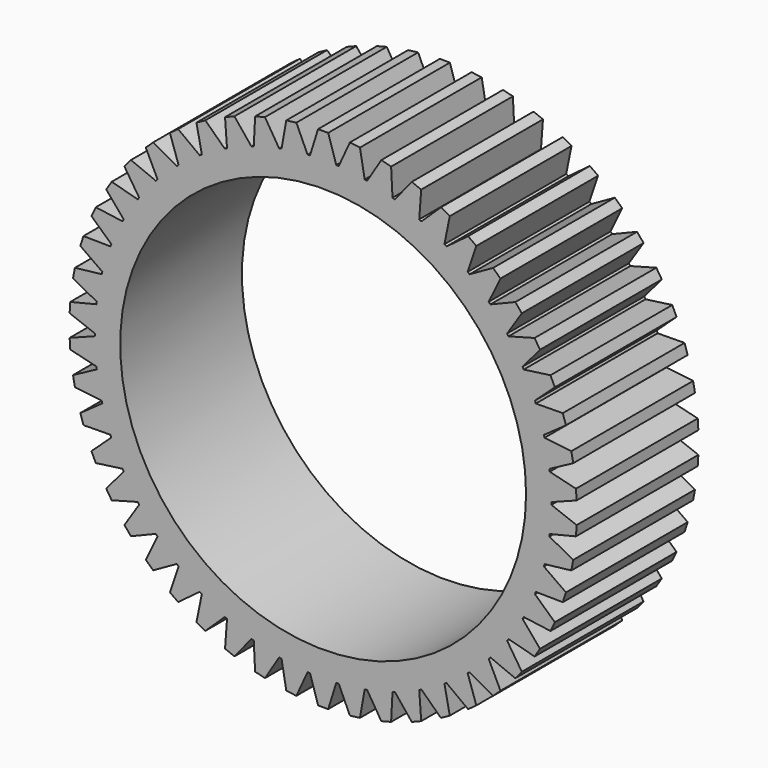
from build123d import *

# Parameters (mm, degrees)
F1_DEPTH = 15
F2_R     = 20
F3_DEPTH = 15


with BuildPart() as f1:
    # F0 (on Front) → F1 (new body)
    with BuildSketch(Plane.XZ):
        with BuildLine():
            ThreePointArc((22.499677, -0.120524), (22.499919, -0.060262), (22.5, 0))
            ThreePointArc((22.5, 0), (22.499919, 0.060262), (22.499677, 0.120524))
            ThreePointArc((22.499677, 0.120524), (22.455601, 1.412787), (22.337366, 2.700384))
            ThreePointArc((22.337366, 2.700384), (22.322581, 2.819998), (22.307155, 2.939531))
            ThreePointArc((22.307155, 2.939531), (22.101463, 4.21608), (21.822782, 5.478705))
            ThreePointArc((21.822782, 5.478705), (21.793121, 5.595522), (21.762835, 5.71218))
            ThreePointArc((21.762835, 5.71218), (21.398772, 6.952882), (20.964039, 8.170623))
            ThreePointArc((20.964039, 8.170623), (20.919971, 8.282802), (20.875303, 8.394744))
            ThreePointArc((20.875303, 8.394744), (20.358609, 9.580034), (19.77468, 10.733686))
            ThreePointArc((19.77468, 10.733686), (19.7169, 10.839458), (19.658555, 10.944918))
            ThreePointArc((19.658555, 10.944918), (18.997378, 12.056103), (18.273463, 13.127473))
            ThreePointArc((18.273463, 13.127473), (18.202882, 13.225168), (18.131779, 13.322484))
            ThreePointArc((18.131779, 13.322484), (17.336548, 14.34204), (16.484063, 15.314231))
            ThreePointArc((16.484063, 15.314231), (16.401794, 15.40231), (16.319054, 15.489947))
            ThreePointArc((16.319054, 15.489947), (15.40231, 16.401794), (14.434699, 17.259474))
            ThreePointArc((14.434699, 17.259474), (14.34204, 17.336548), (14.248969, 17.413124))
            ThreePointArc((14.248969, 17.413124), (13.225168, 18.202882), (12.157692, 18.932526))
            ThreePointArc((12.157692, 18.932526), (12.056103, 18.997378), (11.954168, 19.061686))
            ThreePointArc((11.954168, 19.061686), (10.839458, 19.7169), (9.68895, 20.307))
            ThreePointArc((9.68895, 20.307), (9.580034, 20.358609), (9.470843, 20.409633))
            ThreePointArc((9.470843, 20.409633), (8.282802, 20.919971), (7.067408, 21.361221))
            ThreePointArc((7.067408, 21.361221), (6.952882, 21.398772), (6.838158, 21.435709))
            ThreePointArc((6.838158, 21.435709), (5.595522, 21.793121), (4.334408, 22.078562))
            ThreePointArc((4.334408, 22.078562), (4.21608, 22.101463), (4.09763, 22.12373))
            ThreePointArc((4.09763, 22.12373), (2.819998, 22.322581), (1.533053, 22.447711))
            ThreePointArc((1.533053, 22.447711), (1.412787, 22.455601), (1.29248, 22.462847))
            ThreePointArc((1.29248, 22.462847), (0, 22.5), (-1.29248, 22.462847))
            ThreePointArc((-1.29248, 22.462847), (-1.412787, 22.455601), (-1.533053, 22.447711))
            ThreePointArc((-1.533053, 22.447711), (-2.819998, 22.322581), (-4.09763, 22.12373))
            ThreePointArc((-4.09763, 22.12373), (-4.21608, 22.101463), (-4.334408, 22.078562))
            ThreePointArc((-4.334408, 22.078562), (-5.595522, 21.793121), (-6.838158, 21.435709))
            ThreePointArc((-6.838158, 21.435709), (-6.952882, 21.398772), (-7.067408, 21.361221))
            ThreePointArc((-7.067408, 21.361221), (-8.282802, 20.919971), (-9.470843, 20.409633))
            ThreePointArc((-9.470843, 20.409633), (-9.580034, 20.358609), (-9.68895, 20.307))
            ThreePointArc((-9.68895, 20.307), (-10.839458, 19.7169), (-11.954168, 19.061686))
            ThreePointArc((-11.954168, 19.061686), (-12.056103, 18.997378), (-12.157692, 18.932526))
            ThreePointArc((-12.157692, 18.932526), (-13.225168, 18.202882), (-14.248969, 17.413124))
            ThreePointArc((-14.248969, 17.413124), (-14.34204, 17.336548), (-14.434699, 17.259474))
            ThreePointArc((-14.434699, 17.259474), (-15.40231, 16.401794), (-16.319054, 15.489947))
            ThreePointArc((-16.319054, 15.489947), (-16.401794, 15.40231), (-16.484063, 15.314231))
            ThreePointArc((-16.484063, 15.314231), (-17.336548, 14.34204), (-18.131779, 13.322484))
            ThreePointArc((-18.131779, 13.322484), (-18.202882, 13.225168), (-18.273463, 13.127473))
            ThreePointArc((-18.273463, 13.127473), (-18.997378, 12.056103), (-19.658555, 10.944918))
            ThreePointArc((-19.658555, 10.944918), (-19.7169, 10.839458), (-19.77468, 10.733686))
            ThreePointArc((-19.77468, 10.733686), (-20.358609, 9.580034), (-20.875303, 8.394744))
            ThreePointArc((-20.875303, 8.394744), (-20.919971, 8.282802), (-20.964039, 8.170623))
            ThreePointArc((-20.964039, 8.170623), (-21.398772, 6.952882), (-21.762835, 5.71218))
            ThreePointArc((-21.762835, 5.71218), (-21.793121, 5.595522), (-21.822782, 5.478705))
            ThreePointArc((-21.822782, 5.478705), (-22.101463, 4.21608), (-22.307155, 2.939531))
            ThreePointArc((-22.307155, 2.939531), (-22.322581, 2.819998), (-22.337366, 2.700384))
            ThreePointArc((-22.337366, 2.700384), (-22.455601, 1.412787), (-22.499677, 0.120524))
            ThreePointArc((-22.499677, 0.120524), (-22.5, 0), (-22.499677, -0.120524))
            ThreePointArc((-22.499677, -0.120524), (-22.455601, -1.412787), (-22.337366, -2.700384))
            ThreePointArc((-22.337366, -2.700384), (-22.322581, -2.819998), (-22.307155, -2.939531))
            ThreePointArc((-22.307155, -2.939531), (-22.101463, -4.21608), (-21.822782, -5.478705))
            ThreePointArc((-21.822782, -5.478705), (-21.793121, -5.595522), (-21.762835, -5.71218))
            ThreePointArc((-21.762835, -5.71218), (-21.398772, -6.952882), (-20.964039, -8.170623))
            ThreePointArc((-20.964039, -8.170623), (-20.919971, -8.282802), (-20.875303, -8.394744))
            ThreePointArc((-20.875303, -8.394744), (-20.358609, -9.580034), (-19.77468, -10.733686))
            ThreePointArc((-19.77468, -10.733686), (-19.7169, -10.839458), (-19.658555, -10.944918))
            ThreePointArc((-19.658555, -10.944918), (-18.997378, -12.056103), (-18.273463, -13.127473))
            ThreePointArc((-18.273463, -13.127473), (-18.202882, -13.225168), (-18.131779, -13.322484))
            ThreePointArc((-18.131779, -13.322484), (-17.336548, -14.34204), (-16.484063, -15.314231))
            ThreePointArc((-16.484063, -15.314231), (-16.401794, -15.40231), (-16.319054, -15.489947))
            ThreePointArc((-16.319054, -15.489947), (-15.40231, -16.401794), (-14.434699, -17.259474))
            ThreePointArc((-14.434699, -17.259474), (-14.34204, -17.336548), (-14.248969, -17.413124))
            ThreePointArc((-14.248969, -17.413124), (-13.225168, -18.202882), (-12.157692, -18.932526))
            ThreePointArc((-12.157692, -18.932526), (-12.056103, -18.997378), (-11.954168, -19.061686))
            ThreePointArc((-11.954168, -19.061686), (-10.839458, -19.7169), (-9.68895, -20.307))
            ThreePointArc((-9.68895, -20.307), (-9.580034, -20.358609), (-9.470843, -20.409633))
            ThreePointArc((-9.470843, -20.409633), (-8.282802, -20.919971), (-7.067408, -21.361221))
            ThreePointArc((-7.067408, -21.361221), (-6.952882, -21.398772), (-6.838158, -21.435709))
            ThreePointArc((-6.838158, -21.435709), (-5.595522, -21.793121), (-4.334408, -22.078562))
            ThreePointArc((-4.334408, -22.078562), (-4.21608, -22.101463), (-4.09763, -22.12373))
            ThreePointArc((-4.09763, -22.12373), (-2.819998, -22.322581), (-1.533053, -22.447711))
            ThreePointArc((-1.533053, -22.447711), (-1.412787, -22.455601), (-1.29248, -22.462847))
            ThreePointArc((-1.29248, -22.462847), (0, -22.5), (1.29248, -22.462847))
            ThreePointArc((1.29248, -22.462847), (1.412787, -22.455601), (1.533053, -22.447711))
            ThreePointArc((1.533053, -22.447711), (2.819998, -22.322581), (4.09763, -22.12373))
            ThreePointArc((4.09763, -22.12373), (4.21608, -22.101463), (4.334408, -22.078562))
            ThreePointArc((4.334408, -22.078562), (5.595522, -21.793121), (6.838158, -21.435709))
            ThreePointArc((6.838158, -21.435709), (6.952882, -21.398772), (7.067408, -21.361221))
            ThreePointArc((7.067408, -21.361221), (8.282802, -20.919971), (9.470843, -20.409633))
            ThreePointArc((9.470843, -20.409633), (9.580034, -20.358609), (9.68895, -20.307))
            ThreePointArc((9.68895, -20.307), (10.839458, -19.7169), (11.954168, -19.061686))
            ThreePointArc((11.954168, -19.061686), (12.056103, -18.997378), (12.157692, -18.932526))
            ThreePointArc((12.157692, -18.932526), (13.225168, -18.202882), (14.248969, -17.413124))
            ThreePointArc((14.248969, -17.413124), (14.34204, -17.336548), (14.434699, -17.259474))
            ThreePointArc((14.434699, -17.259474), (15.40231, -16.401794), (16.319054, -15.489947))
            ThreePointArc((16.319054, -15.489947), (16.401794, -15.40231), (16.484063, -15.314231))
            ThreePointArc((16.484063, -15.314231), (17.336548, -14.34204), (18.131779, -13.322484))
            ThreePointArc((18.131779, -13.322484), (18.202882, -13.225168), (18.273463, -13.127473))
            ThreePointArc((18.273463, -13.127473), (18.997378, -12.056103), (19.658555, -10.944918))
            ThreePointArc((19.658555, -10.944918), (19.7169, -10.839458), (19.77468, -10.733686))
            ThreePointArc((19.77468, -10.733686), (20.358609, -9.580034), (20.875303, -8.394744))
            ThreePointArc((20.875303, -8.394744), (20.919971, -8.282802), (20.964039, -8.170623))
            ThreePointArc((20.964039, -8.170623), (21.398772, -6.952882), (21.762835, -5.71218))
            ThreePointArc((21.762835, -5.71218), (21.793121, -5.595522), (21.822782, -5.478705))
            ThreePointArc((21.822782, -5.478705), (22.101463, -4.21608), (22.307155, -2.939531))
            ThreePointArc((22.307155, -2.939531), (22.322581, -2.819998), (22.337366, -2.700384))
            ThreePointArc((22.337366, -2.700384), (22.455601, -1.412787), (22.499677, -0.120524))
        make_face()
        with BuildLine():
            ThreePointArc((22.337366, 2.700384), (22.455601, 1.412787), (22.499677, 0.120524))
            Line((22.499677, 0.120524), (24.982063, 1.07075))
            Line((24.982063, 1.07075), (24.919273, 2.068776))
            Line((24.919273, 2.068776), (22.337366, 2.700384))
        make_face()
        with BuildLine():
            Line((24.982063, -1.07075), (22.499677, -0.120524))
            ThreePointArc((22.499677, -0.120524), (22.455601, -1.412787), (22.337366, -2.700384))
            Line((22.337366, -2.700384), (24.919273, -2.068776))
            Line((24.919273, -2.068776), (24.982063, -1.07075))
        make_face()
        with BuildLine():
            ThreePointArc((21.822782, 5.478705), (22.101463, 4.21608), (22.307155, 2.939531))
            Line((22.307155, 2.939531), (24.650872, 4.193389))
            Line((24.650872, 4.193389), (24.463491, 5.175676))
            Line((24.463491, 5.175676), (21.822782, 5.478705))
        make_face()
        with BuildLine():
            Line((24.650872, -4.193389), (22.307155, -2.939531))
            ThreePointArc((22.307155, -2.939531), (22.101463, -4.21608), (21.822782, -5.478705))
            Line((21.822782, -5.478705), (24.463491, -5.175676))
            Line((24.463491, -5.175676), (24.650872, -4.193389))
        make_face()
        with BuildLine():
            ThreePointArc((20.964039, 8.170623), (21.398772, 6.952882), (21.762835, 5.71218))
            Line((21.762835, 5.71218), (23.930921, 7.249897))
            Line((23.930921, 7.249897), (23.621904, 8.200953))
            Line((23.621904, 8.200953), (20.964039, 8.170623))
        make_face()
        with BuildLine():
            Line((23.930921, -7.249897), (21.762835, -5.71218))
            ThreePointArc((21.762835, -5.71218), (21.398772, -6.952882), (20.964039, -8.170623))
            Line((20.964039, -8.170623), (23.621904, -8.200953))
            Line((23.621904, -8.200953), (23.930921, -7.249897))
        make_face()
        with BuildLine():
            ThreePointArc((19.77468, 10.733686), (20.358609, 9.580034), (20.875303, 8.394744))
            Line((20.875303, 8.394744), (22.833566, 10.192069))
            Line((22.833566, 10.192069), (22.407787, 11.096896))
            Line((22.407787, 11.096896), (19.77468, 10.733686))
        make_face()
        with BuildLine():
            Line((22.833566, -10.192069), (20.875303, -8.394744))
            ThreePointArc((20.875303, -8.394744), (20.358609, -9.580034), (19.77468, -10.733686))
            Line((19.77468, -10.733686), (22.407787, -11.096896))
            Line((22.407787, -11.096896), (22.833566, -10.192069))
        make_face()
        with BuildLine():
            ThreePointArc((18.273463, 13.127473), (18.997378, 12.056103), (19.658555, 10.944918))
            Line((19.658555, 10.944918), (21.376112, 12.973506))
            Line((21.376112, 12.973506), (20.840285, 13.817834))
            Line((20.840285, 13.817834), (18.273463, 13.127473))
        make_face()
        with BuildLine():
            Line((21.376112, -12.973506), (19.658555, -10.944918))
            ThreePointArc((19.658555, -10.944918), (18.997378, -12.056103), (18.273463, -13.127473))
            Line((18.273463, -13.127473), (20.840285, -13.817834))
            Line((20.840285, -13.817834), (21.376112, -12.973506))
        make_face()
        with BuildLine():
            ThreePointArc((16.484063, 15.314231), (17.336548, 14.34204), (18.131779, 13.322484))
            Line((18.131779, 13.322484), (19.581543, 15.550343))
            Line((19.581543, 15.550343), (18.944119, 16.320856))
            Line((18.944119, 16.320856), (16.484063, 15.314231))
        make_face()
        with BuildLine():
            Line((19.581543, -15.550343), (18.131779, -13.322484))
            ThreePointArc((18.131779, -13.322484), (17.336548, -14.34204), (16.484063, -15.314231))
            Line((16.484063, -15.314231), (18.944119, -16.320856))
            Line((18.944119, -16.320856), (19.581543, -15.550343))
        make_face()
        with BuildLine():
            ThreePointArc((14.434699, 17.259474), (15.40231, 16.401794), (16.319054, 15.489947))
            Line((16.319054, 15.489947), (17.478162, 17.881942))
            Line((17.478162, 17.881942), (16.749193, 18.566489))
            Line((16.749193, 18.566489), (14.434699, 17.259474))
        make_face()
        with BuildLine():
            Line((17.478162, -17.881942), (16.319054, -15.489947))
            ThreePointArc((16.319054, -15.489947), (15.40231, -16.401794), (14.434699, -17.259474))
            Line((14.434699, -17.259474), (16.749193, -18.566489))
            Line((16.749193, -18.566489), (17.478162, -17.881942))
        make_face()
        with BuildLine():
            ThreePointArc((12.157692, 18.932526), (13.225168, 18.202882), (14.248969, 17.413124))
            Line((14.248969, 17.413124), (15.09914, 19.931532))
            Line((15.09914, 19.931532), (14.290123, 20.519317))
            Line((14.290123, 20.519317), (12.157692, 18.932526))
        make_face()
        with BuildLine():
            Line((15.09914, -19.931532), (14.248969, -17.413124))
            ThreePointArc((14.248969, -17.413124), (13.225168, -18.202882), (12.157692, -18.932526))
            Line((12.157692, -18.932526), (14.290123, -20.519317))
            Line((14.290123, -20.519317), (15.09914, -19.931532))
        make_face()
        with BuildLine():
            ThreePointArc((9.68895, 20.307), (10.839458, 19.7169), (11.954168, 19.061686))
            Line((11.954168, 19.061686), (12.481995, 21.66679))
            Line((12.481995, 21.66679), (11.605689, 22.148544))
            Line((11.605689, 22.148544), (9.68895, 20.307))
        make_face()
        with BuildLine():
            Line((12.481995, -21.66679), (11.954168, -19.061686))
            ThreePointArc((11.954168, -19.061686), (10.839458, -19.7169), (9.68895, -20.307))
            Line((9.68895, -20.307), (11.605689, -22.148544))
            Line((11.605689, -22.148544), (12.481995, -21.66679))
        make_face()
        with BuildLine():
            ThreePointArc((7.067408, 21.361221), (8.282802, 20.919971), (9.470843, 20.409633))
            Line((9.470843, 20.409633), (9.668002, 23.06035))
            Line((9.668002, 23.06035), (8.738226, 23.428474))
            Line((8.738226, 23.428474), (7.067408, 21.361221))
        make_face()
        with BuildLine():
            Line((9.668002, -23.06035), (9.470843, -20.409633))
            ThreePointArc((9.470843, -20.409633), (8.282802, -20.919971), (7.067408, -21.361221))
            Line((7.067408, -21.361221), (8.738226, -23.428474))
            Line((8.738226, -23.428474), (9.668002, -23.06035))
        make_face()
        with BuildLine():
            ThreePointArc((4.334408, 22.078562), (5.595522, 21.793121), (6.838158, 21.435709))
            Line((6.838158, 21.435709), (6.701539, 24.090234))
            Line((6.701539, 24.090234), (5.732956, 24.338924))
            Line((5.732956, 24.338924), (4.334408, 22.078562))
        make_face()
        with BuildLine():
            Line((6.701539, -24.090234), (6.838158, -21.435709))
            ThreePointArc((6.838158, -21.435709), (5.595522, -21.793121), (4.334408, -22.078562))
            Line((4.334408, -22.078562), (5.732956, -24.338924))
            Line((5.732956, -24.338924), (6.701539, -24.090234))
        make_face()
        with BuildLine():
            ThreePointArc((1.533053, 22.447711), (2.819998, 22.322581), (4.09763, 22.12373))
            Line((4.09763, 22.12373), (3.629388, 24.740201))
            Line((3.629388, 24.740201), (2.637273, 24.865534))
            Line((2.637273, 24.865534), (1.533053, 22.447711))
        make_face()
        with BuildLine():
            Line((3.629388, -24.740201), (4.09763, -22.12373))
            ThreePointArc((4.09763, -22.12373), (2.819998, -22.322581), (1.533053, -22.447711))
            Line((1.533053, -22.447711), (2.637273, -24.865534))
            Line((2.637273, -24.865534), (3.629388, -24.740201))
        make_face()
        with BuildLine():
            ThreePointArc((-1.29248, 22.462847), (0, 22.5), (1.29248, 22.462847))
            Line((1.29248, 22.462847), (0.5, 25))
            Line((0.5, 25), (-0.5, 25))
            Line((-0.5, 25), (-1.29248, 22.462847))
        make_face()
        with BuildLine():
            Line((0.5, -25), (1.29248, -22.462847))
            ThreePointArc((1.29248, -22.462847), (0, -22.5), (-1.29248, -22.462847))
            Line((-1.29248, -22.462847), (-0.5, -25))
            Line((-0.5, -25), (0.5, -25))
        make_face()
        with BuildLine():
            ThreePointArc((-4.09763, 22.12373), (-2.819998, 22.322581), (-1.533053, 22.447711))
            Line((-1.533053, 22.447711), (-2.637273, 24.865534))
            Line((-2.637273, 24.865534), (-3.629388, 24.740201))
            Line((-3.629388, 24.740201), (-4.09763, 22.12373))
        make_face()
        with BuildLine():
            Line((-2.637273, -24.865534), (-1.533053, -22.447711))
            ThreePointArc((-1.533053, -22.447711), (-2.819998, -22.322581), (-4.09763, -22.12373))
            Line((-4.09763, -22.12373), (-3.629388, -24.740201))
            Line((-3.629388, -24.740201), (-2.637273, -24.865534))
        make_face()
        with BuildLine():
            ThreePointArc((-6.838158, 21.435709), (-5.595522, 21.793121), (-4.334408, 22.078562))
            Line((-4.334408, 22.078562), (-5.732956, 24.338924))
            Line((-5.732956, 24.338924), (-6.701539, 24.090234))
            Line((-6.701539, 24.090234), (-6.838158, 21.435709))
        make_face()
        with BuildLine():
            Line((-5.732956, -24.338924), (-4.334408, -22.078562))
            ThreePointArc((-4.334408, -22.078562), (-5.595522, -21.793121), (-6.838158, -21.435709))
            Line((-6.838158, -21.435709), (-6.701539, -24.090234))
            Line((-6.701539, -24.090234), (-5.732956, -24.338924))
        make_face()
        with BuildLine():
            ThreePointArc((-9.470843, 20.409633), (-8.282802, 20.919971), (-7.067408, 21.361221))
            Line((-7.067408, 21.361221), (-8.738226, 23.428474))
            Line((-8.738226, 23.428474), (-9.668002, 23.06035))
            Line((-9.668002, 23.06035), (-9.470843, 20.409633))
        make_face()
        with BuildLine():
            Line((-8.738226, -23.428474), (-7.067408, -21.361221))
            ThreePointArc((-7.067408, -21.361221), (-8.282802, -20.919971), (-9.470843, -20.409633))
            Line((-9.470843, -20.409633), (-9.668002, -23.06035))
            Line((-9.668002, -23.06035), (-8.738226, -23.428474))
        make_face()
        with BuildLine():
            ThreePointArc((-11.954168, 19.061686), (-10.839458, 19.7169), (-9.68895, 20.307))
            Line((-9.68895, 20.307), (-11.605689, 22.148544))
            Line((-11.605689, 22.148544), (-12.481995, 21.66679))
            Line((-12.481995, 21.66679), (-11.954168, 19.061686))
        make_face()
        with BuildLine():
            Line((-11.605689, -22.148544), (-9.68895, -20.307))
            ThreePointArc((-9.68895, -20.307), (-10.839458, -19.7169), (-11.954168, -19.061686))
            Line((-11.954168, -19.061686), (-12.481995, -21.66679))
            Line((-12.481995, -21.66679), (-11.605689, -22.148544))
        make_face()
        with BuildLine():
            ThreePointArc((-14.248969, 17.413124), (-13.225168, 18.202882), (-12.157692, 18.932526))
            Line((-12.157692, 18.932526), (-14.290123, 20.519317))
            Line((-14.290123, 20.519317), (-15.09914, 19.931532))
            Line((-15.09914, 19.931532), (-14.248969, 17.413124))
        make_face()
        with BuildLine():
            Line((-14.290123, -20.519317), (-12.157692, -18.932526))
            ThreePointArc((-12.157692, -18.932526), (-13.225168, -18.202882), (-14.248969, -17.413124))
            Line((-14.248969, -17.413124), (-15.09914, -19.931532))
            Line((-15.09914, -19.931532), (-14.290123, -20.519317))
        make_face()
        with BuildLine():
            ThreePointArc((-16.319054, 15.489947), (-15.40231, 16.401794), (-14.434699, 17.259474))
            Line((-14.434699, 17.259474), (-16.749193, 18.566489))
            Line((-16.749193, 18.566489), (-17.478162, 17.881942))
            Line((-17.478162, 17.881942), (-16.319054, 15.489947))
        make_face()
        with BuildLine():
            Line((-16.749193, -18.566489), (-14.434699, -17.259474))
            ThreePointArc((-14.434699, -17.259474), (-15.40231, -16.401794), (-16.319054, -15.489947))
            Line((-16.319054, -15.489947), (-17.478162, -17.881942))
            Line((-17.478162, -17.881942), (-16.749193, -18.566489))
        make_face()
        with BuildLine():
            ThreePointArc((-18.131779, 13.322484), (-17.336548, 14.34204), (-16.484063, 15.314231))
            Line((-16.484063, 15.314231), (-18.944119, 16.320856))
            Line((-18.944119, 16.320856), (-19.581543, 15.550343))
            Line((-19.581543, 15.550343), (-18.131779, 13.322484))
        make_face()
        with BuildLine():
            Line((-18.944119, -16.320856), (-16.484063, -15.314231))
            ThreePointArc((-16.484063, -15.314231), (-17.336548, -14.34204), (-18.131779, -13.322484))
            Line((-18.131779, -13.322484), (-19.581543, -15.550343))
            Line((-19.581543, -15.550343), (-18.944119, -16.320856))
        make_face()
        with BuildLine():
            ThreePointArc((-19.658555, 10.944918), (-18.997378, 12.056103), (-18.273463, 13.127473))
            Line((-18.273463, 13.127473), (-20.840285, 13.817834))
            Line((-20.840285, 13.817834), (-21.376112, 12.973506))
            Line((-21.376112, 12.973506), (-19.658555, 10.944918))
        make_face()
        with BuildLine():
            Line((-20.840285, -13.817834), (-18.273463, -13.127473))
            ThreePointArc((-18.273463, -13.127473), (-18.997378, -12.056103), (-19.658555, -10.944918))
            Line((-19.658555, -10.944918), (-21.376112, -12.973506))
            Line((-21.376112, -12.973506), (-20.840285, -13.817834))
        make_face()
        with BuildLine():
            ThreePointArc((-20.875303, 8.394744), (-20.358609, 9.580034), (-19.77468, 10.733686))
            Line((-19.77468, 10.733686), (-22.407787, 11.096896))
            Line((-22.407787, 11.096896), (-22.833566, 10.192069))
            Line((-22.833566, 10.192069), (-20.875303, 8.394744))
        make_face()
        with BuildLine():
            Line((-22.407787, -11.096896), (-19.77468, -10.733686))
            ThreePointArc((-19.77468, -10.733686), (-20.358609, -9.580034), (-20.875303, -8.394744))
            Line((-20.875303, -8.394744), (-22.833566, -10.192069))
            Line((-22.833566, -10.192069), (-22.407787, -11.096896))
        make_face()
        with BuildLine():
            ThreePointArc((-21.762835, 5.71218), (-21.398772, 6.952882), (-20.964039, 8.170623))
            Line((-20.964039, 8.170623), (-23.621904, 8.200953))
            Line((-23.621904, 8.200953), (-23.930921, 7.249897))
            Line((-23.930921, 7.249897), (-21.762835, 5.71218))
        make_face()
        with BuildLine():
            Line((-23.621904, -8.200953), (-20.964039, -8.170623))
            ThreePointArc((-20.964039, -8.170623), (-21.398772, -6.952882), (-21.762835, -5.71218))
            Line((-21.762835, -5.71218), (-23.930921, -7.249897))
            Line((-23.930921, -7.249897), (-23.621904, -8.200953))
        make_face()
        with BuildLine():
            ThreePointArc((-22.307155, 2.939531), (-22.101463, 4.21608), (-21.822782, 5.478705))
            Line((-21.822782, 5.478705), (-24.463491, 5.175676))
            Line((-24.463491, 5.175676), (-24.650872, 4.193389))
            Line((-24.650872, 4.193389), (-22.307155, 2.939531))
        make_face()
        with BuildLine():
            Line((-24.463491, -5.175676), (-21.822782, -5.478705))
            ThreePointArc((-21.822782, -5.478705), (-22.101463, -4.21608), (-22.307155, -2.939531))
            Line((-22.307155, -2.939531), (-24.650872, -4.193389))
            Line((-24.650872, -4.193389), (-24.463491, -5.175676))
        make_face()
        with BuildLine():
            ThreePointArc((-22.499677, 0.120524), (-22.455601, 1.412787), (-22.337366, 2.700384))
            Line((-22.337366, 2.700384), (-24.919273, 2.068776))
            Line((-24.919273, 2.068776), (-24.982063, 1.07075))
            Line((-24.982063, 1.07075), (-22.499677, 0.120524))
        make_face()
        with BuildLine():
            Line((-24.919273, -2.068776), (-22.337366, -2.700384))
            ThreePointArc((-22.337366, -2.700384), (-22.455601, -1.412787), (-22.499677, -0.120524))
            Line((-22.499677, -0.120524), (-24.982063, -1.07075))
            Line((-24.982063, -1.07075), (-24.919273, -2.068776))
        make_face()
    extrude(amount=F1_DEPTH)

    # F2 (on face) → F3 (cut, through all)
    with BuildSketch(Plane.XZ.offset(15)):
        Circle(F2_R)
    extrude(amount=-F3_DEPTH, mode=Mode.SUBTRACT)


solid = f1.part
